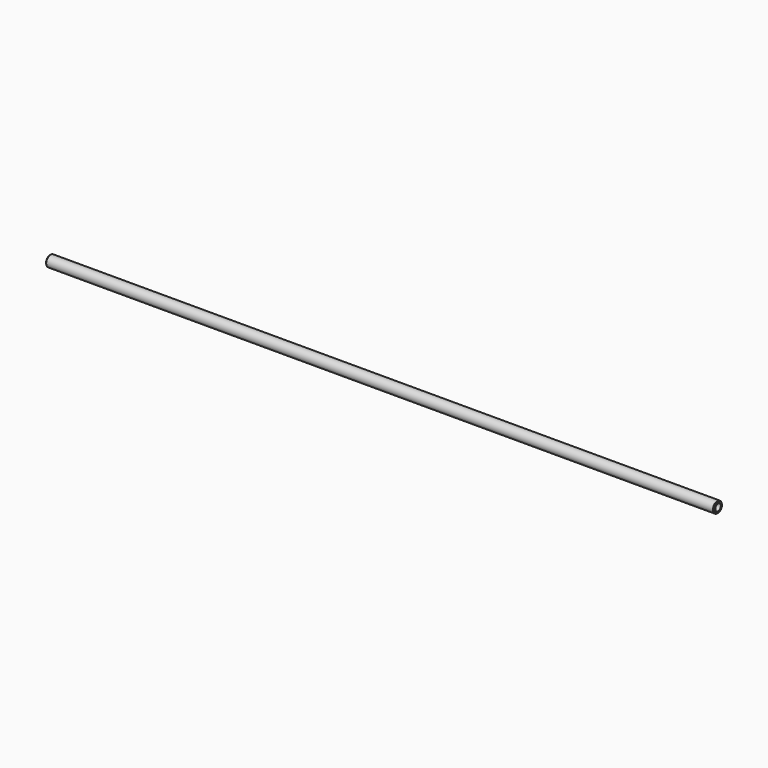
from build123d import *

# Parameters (mm, degrees)
F0_R           = 4
F1_DEPTH       = 486
F4_D           = 5
F4_DEPTH       = 20
F4_TIP         = 1.5021515476
F4_ON_F2_D     = 5
F4_ON_F2_DEPTH = 20
F4_ON_F2_TIP   = 1.5021515476
F5_SIZE        = 0.5


with BuildPart() as f1:
    # F0 (on Right) → F1 (new body)
    with BuildSketch(Plane.YZ):
        Circle(F0_R)
    extrude(amount=F1_DEPTH)

    # F4
    with Locations(Plane(origin=(0, 0, 0), x_dir=(0, -1, 0), z_dir=(-1, 0, 0))):
        with Locations((0, 0)):
            Hole(F4_D / 2, depth=F4_DEPTH)
            with Locations((0, 0, -(F4_DEPTH + F4_TIP / 2))):  # 118° drill point
                Cone(0, F4_D / 2, F4_TIP, mode=Mode.SUBTRACT)

    # F4 on F2
    with Locations(Plane.YZ.offset(486)):
        with Locations((0, 0)):
            Hole(F4_ON_F2_D / 2, depth=F4_ON_F2_DEPTH)
            with Locations((0, 0, -(F4_ON_F2_DEPTH + F4_ON_F2_TIP / 2))):  # 118° drill point
                Cone(0, F4_ON_F2_D / 2, F4_ON_F2_TIP, mode=Mode.SUBTRACT)

    # F5
    f5_edges = [f1.edges().sort_by_distance(p)[0] for p in [
        (486, -4, 0),
        (0, -4, 0),
    ]]
    chamfer(f5_edges, length=F5_SIZE)


solid = f1.part
